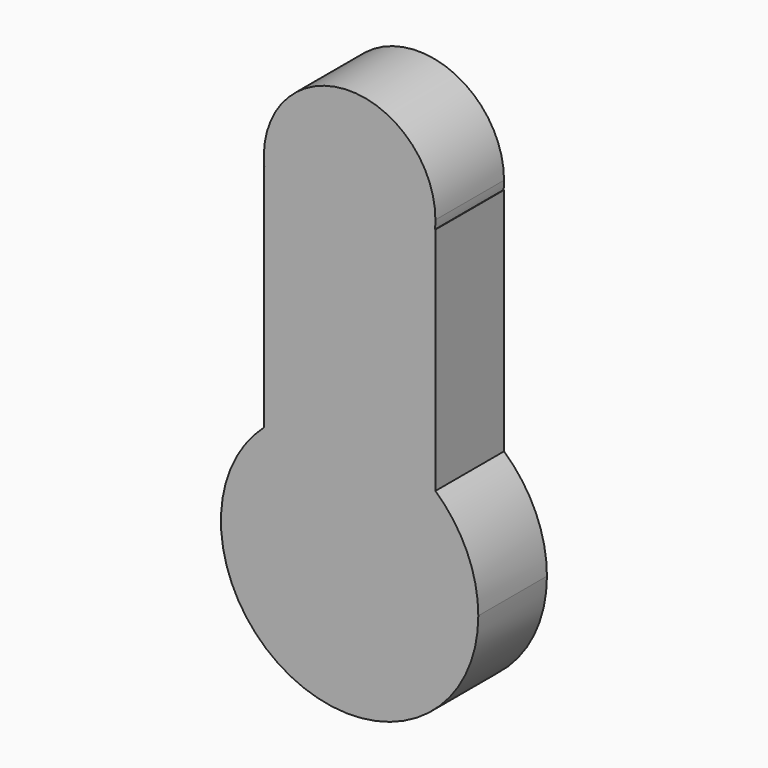
from build123d import *

# Parameters (mm, degrees)
F1_DEPTH = 25


with BuildPart() as f1:
    # F0 (on Front) → F1 (new body)
    with BuildSketch(Plane.XZ):
        with BuildLine():
            ThreePointArc((24.8746859277, 37.5), (24.9686518278, 38.7484306235), (25, 40))
            ThreePointArc((25, 40), (-1.2515693765, 64.9686518278), (-24.8746859277, 37.5))
            Line((-24.8746859277, 37.5), (24.8746859277, 37.5))
        make_face()
        with BuildLine():
            Line((24.8746859277, 37.5), (-24.8746859277, 37.5))
            ThreePointArc((-24.8746859277, 37.5), (0, 15), (24.8746859277, 37.5))
        make_face()
        with BuildLine():
            ThreePointArc((24.8746859277, 37.5), (0, 15), (-24.8746859277, 37.5))
            Line((-24.8746859277, 37.5), (-25, 37.5))
            Line((-25, 37.5), (-25, -29.5491502813))
            ThreePointArc((-25, -29.5491502813), (0, -20), (25, -29.5491502813))
            Line((25, -29.5491502813), (25, 37.5))
            Line((25, 37.5), (24.8746859277, 37.5))
        make_face()
        with BuildLine():
            Line((-25, -37.5), (-25, -29.5491502813))
            ThreePointArc((-25, -29.5491502813), (-15.3093108924, -91.7326598441), (37.5, -57.5))
            ThreePointArc((37.5, -57.5), (34.2326598441, -42.1906891076), (25, -29.5491502813))
            Line((25, -29.5491502813), (25, -37.5))
            Line((25, -37.5), (-25, -37.5))
        make_face()
        with BuildLine():
            ThreePointArc((25, -29.5491502813), (0, -20), (-25, -29.5491502813))
            Line((-25, -29.5491502813), (-25, -37.5))
            Line((-25, -37.5), (25, -37.5))
            Line((25, -37.5), (25, -29.5491502813))
        make_face()
    extrude(amount=F1_DEPTH)


solid = f1.part
